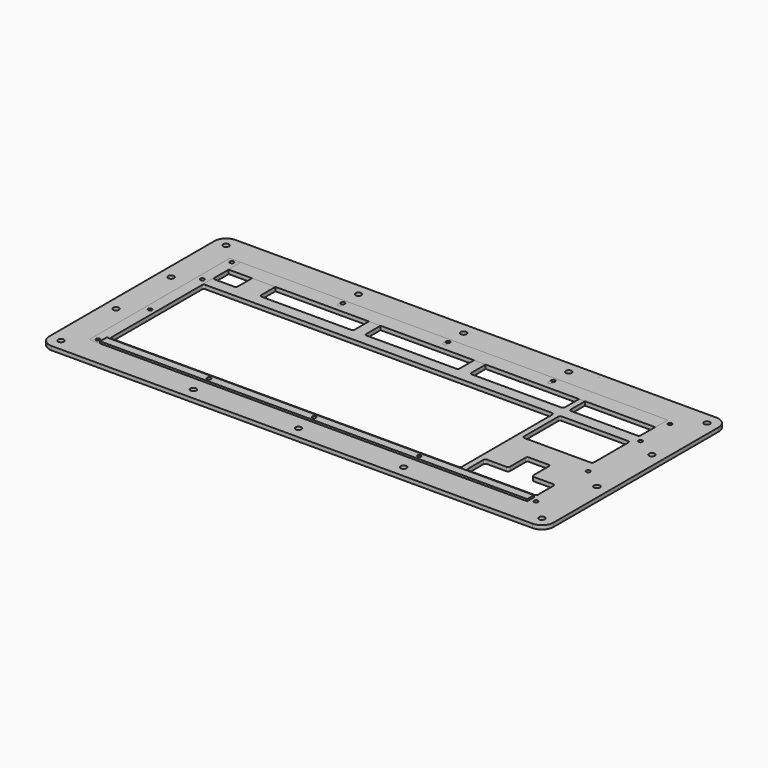
from build123d import *

# Parameters (mm, degrees)
F1_W      = 388.9375
F1_H      = 187.325
F1_R      = 2.38125
F2_DEPTH  = 3.175
F0_R      = 1.5875
F3_DEPTH  = 3.176
F4_W      = 411.1625
F4_H      = 187.325
F4_R      = 2.38125
F5_DEPTH  = 3.175
F6_DEPTH  = 3.175
F7_W      = 8.89
F7_H      = 143.383
F7_R      = 1.5875
F8_DEPTH  = 3.175
F9_W      = 348.251534
F9_H      = 12.7
F10_DEPTH = 3.175
F11_W     = 348.2975
F11_H     = 6.858
F11_R     = 1.5875
F12_DEPTH = 4.7625
F13_R     = 9.525
F13_2_R   = 9.525
F14_R     = 9.525
F14_2_R   = 9.525


with BuildPart() as f2:
    # F1 (on Top) → F2 (new body)
    with BuildSketch(Plane.XY):
        with Locations((153.19375, 52.3875)):
            Rectangle(F1_W, F1_H)
        with Locations((-31.75, -31.75)):
            Circle(F1_R, mode=Mode.SUBTRACT)
        with Locations((76.2, -31.75)):
            Circle(F1_R, mode=Mode.SUBTRACT)
        with Locations((-31.75, 24.341667)):
            Circle(F1_R, mode=Mode.SUBTRACT)
        with Locations((161.925, -31.75)):
            Circle(F1_R, mode=Mode.SUBTRACT)
        with Locations((247.65, -31.75)):
            Circle(F1_R, mode=Mode.SUBTRACT)
        with Locations((342.9, -31.75)):
            Circle(F1_R, mode=Mode.SUBTRACT)
        with Locations((-31.75, 80.433333)):
            Circle(F1_R, mode=Mode.SUBTRACT)
        with Locations((-31.75, 136.525)):
            Circle(F1_R, mode=Mode.SUBTRACT)
        with Locations((76.2, 136.525)):
            Circle(F1_R, mode=Mode.SUBTRACT)
        with Locations((161.925, 136.525)):
            Circle(F1_R, mode=Mode.SUBTRACT)
        with Locations((247.65, 136.525)):
            Circle(F1_R, mode=Mode.SUBTRACT)
        with Locations((342.9, 136.525)):
            Circle(F1_R, mode=Mode.SUBTRACT)
    extrude(amount=F2_DEPTH)

    # F0 (on Top) → F3 (cut, through all)
    with BuildSketch(Plane.XY):
        with BuildLine():
            Line((7.9375, 114.3), (-7.9375, 114.3))
            ThreePointArc((-7.9375, 114.3), (-9.060032, 113.835032), (-9.525, 112.7125))
            Line((-9.525, 112.7125), (-9.525, 96.8375))
            ThreePointArc((-9.525, 96.8375), (-9.060032, 95.714968), (-7.9375, 95.25))
            Line((-7.9375, 95.25), (7.9375, 95.25))
            ThreePointArc((7.9375, 95.25), (9.060032, 95.714968), (9.525, 96.8375))
            Line((9.525, 96.8375), (9.525, 112.7125))
            ThreePointArc((9.525, 112.7125), (9.060032, 113.835032), (7.9375, 114.3))
        make_face()
        with BuildLine():
            Line((103.1875, 114.3), (30.1625, 114.3))
            ThreePointArc((30.1625, 114.3), (29.039968, 113.835032), (28.575, 112.7125))
            Line((28.575, 112.7125), (28.575, 96.8375))
            ThreePointArc((28.575, 96.8375), (29.039968, 95.714968), (30.1625, 95.25))
            Line((30.1625, 95.25), (103.1875, 95.25))
            ThreePointArc((103.1875, 95.25), (104.310032, 95.714968), (104.775, 96.8375))
            Line((104.775, 96.8375), (104.775, 112.7125))
            ThreePointArc((104.775, 112.7125), (104.310032, 113.835032), (103.1875, 114.3))
        make_face()
        with BuildLine():
            Line((188.9125, 114.3), (115.8875, 114.3))
            ThreePointArc((115.8875, 114.3), (114.764968, 113.835032), (114.3, 112.7125))
            Line((114.3, 112.7125), (114.3, 96.8375))
            ThreePointArc((114.3, 96.8375), (114.764968, 95.714968), (115.8875, 95.25))
            Line((115.8875, 95.25), (188.9125, 95.25))
            ThreePointArc((188.9125, 95.25), (190.035032, 95.714968), (190.5, 96.8375))
            Line((190.5, 96.8375), (190.5, 112.7125))
            ThreePointArc((190.5, 112.7125), (190.035032, 113.835032), (188.9125, 114.3))
        make_face()
        with BuildLine():
            Line((274.6375, 114.3), (201.6125, 114.3))
            ThreePointArc((201.6125, 114.3), (200.489968, 113.835032), (200.025, 112.7125))
            Line((200.025, 112.7125), (200.025, 96.8375))
            ThreePointArc((200.025, 96.8375), (200.489968, 95.714968), (201.6125, 95.25))
            Line((201.6125, 95.25), (274.6375, 95.25))
            ThreePointArc((274.6375, 95.25), (275.760032, 95.714968), (276.225, 96.8375))
            Line((276.225, 96.8375), (276.225, 112.7125))
            ThreePointArc((276.225, 112.7125), (275.760032, 113.835032), (274.6375, 114.3))
        make_face()
        with BuildLine():
            Line((336.55, 114.3), (282.575, 114.3))
            ThreePointArc((282.575, 114.3), (281.452468, 113.835032), (280.9875, 112.7125))
            Line((280.9875, 112.7125), (280.9875, 96.8375))
            ThreePointArc((280.9875, 96.8375), (281.452468, 95.714968), (282.575, 95.25))
            Line((282.575, 95.25), (336.55, 95.25))
            ThreePointArc((336.55, 95.25), (337.672532, 95.714968), (338.1375, 96.8375))
            Line((338.1375, 96.8375), (338.1375, 112.7125))
            ThreePointArc((338.1375, 112.7125), (337.672532, 113.835032), (336.55, 114.3))
        make_face()
        with BuildLine():
            Line((274.6375, 85.725), (-7.9375, 85.725))
            ThreePointArc((-7.9375, 85.725), (-9.060032, 85.260032), (-9.525, 84.1375))
            Line((-9.525, 84.1375), (-9.525, -7.9375))
            ThreePointArc((-9.525, -7.9375), (-9.060032, -9.060032), (-7.9375, -9.525))
            Line((-7.9375, -9.525), (274.6375, -9.525))
            ThreePointArc((274.6375, -9.525), (275.760032, -9.060032), (276.225, -7.9375))
            Line((276.225, -7.9375), (276.225, 84.1375))
            ThreePointArc((276.225, 84.1375), (275.760032, 85.260032), (274.6375, 85.725))
        make_face()
        with BuildLine():
            Line((336.55, 85.725), (282.575, 85.725))
            ThreePointArc((282.575, 85.725), (281.452468, 85.260032), (280.9875, 84.1375))
            Line((280.9875, 84.1375), (280.9875, 49.2125))
            ThreePointArc((280.9875, 49.2125), (281.452468, 48.089968), (282.575, 47.625))
            Line((282.575, 47.625), (336.55, 47.625))
            ThreePointArc((336.55, 47.625), (337.672532, 48.089968), (338.1375, 49.2125))
            Line((338.1375, 49.2125), (338.1375, 84.1375))
            ThreePointArc((338.1375, 84.1375), (337.672532, 85.260032), (336.55, 85.725))
        make_face()
        with BuildLine():
            ThreePointArc((319.0875, 26.9875), (318.622532, 28.110032), (317.5, 28.575))
            Line((317.5, 28.575), (301.625, 28.575))
            ThreePointArc((301.625, 28.575), (300.502468, 28.110032), (300.0375, 26.9875))
            Line((300.0375, 26.9875), (300.0375, 11.1125))
            ThreePointArc((300.0375, 11.1125), (299.572532, 9.989968), (298.45, 9.525))
            Line((298.45, 9.525), (282.575, 9.525))
            ThreePointArc((282.575, 9.525), (281.452468, 9.060032), (280.9875, 7.9375))
            Line((280.9875, 7.9375), (280.9875, -7.9375))
            ThreePointArc((280.9875, -7.9375), (281.452468, -9.060032), (282.575, -9.525))
            Line((282.575, -9.525), (336.55, -9.525))
            ThreePointArc((336.55, -9.525), (337.672532, -9.060032), (338.1375, -7.9375))
            Line((338.1375, -7.9375), (338.1375, 7.9375))
            ThreePointArc((338.1375, 7.9375), (337.672532, 9.060032), (336.55, 9.525))
            Line((336.55, 9.525), (320.675, 9.525))
            ThreePointArc((320.675, 9.525), (319.552468, 9.989968), (319.0875, 11.1125))
            Line((319.0875, 11.1125), (319.0875, 26.9875))
        make_face()
        with Locations((-14.2875, 120.65)):
            Circle(F0_R)
        with Locations((-14.2875, 90.4875)):
            Circle(F0_R)
        with Locations((-14.2875, -15.875)):
            Circle(F0_R)
        with Locations((-14.2875, 37.30625)):
            Circle(F0_R)
        with Locations((342.9, 90.4875)):
            Circle(F0_R)
        with Locations((342.9, 37.30625)):
            Circle(F0_R)
        with Locations((342.9, -15.875)):
            Circle(F0_R)
        with Locations((342.9, 120.65)):
            Circle(F0_R)
        with Locations((76.2, 120.65)):
            Circle(F0_R)
        with Locations((161.925, 120.65)):
            Circle(F0_R)
        with Locations((247.65, 120.65)):
            Circle(F0_R)
        with Locations((76.2, -15.875)):
            Circle(F0_R)
        with Locations((161.925, -15.875)):
            Circle(F0_R)
        with Locations((247.65, -15.875)):
            Circle(F0_R)
    extrude(amount=F3_DEPTH, mode=Mode.SUBTRACT)

    # F13
    f13_edges = [f2.edges().sort_by_distance(p)[0] for p in [
        (-41.275, -41.275, 1.5875),
        (-41.275, 146.05, 1.5875),
    ]]
    fillet(f13_edges, radius=F13_R)

    # F14#2
    f14_2_edges = [f2.edges().sort_by_distance(p)[0] for p in [
        (347.6625, 146.05, 1.5875),
        (347.6625, -41.275, 1.5875),
    ]]
    fillet(f14_2_edges, radius=F14_2_R)


with BuildPart() as f5:
    # F4 (on Top) → F5 (new body)
    with BuildSketch(Plane.XY):
        with Locations((164.30625, 52.3875)):
            Rectangle(F4_W, F4_H)
        with Locations((-31.75, -31.75)):
            Circle(F4_R, mode=Mode.SUBTRACT)
        with Locations((76.2, -31.75)):
            Circle(F4_R, mode=Mode.SUBTRACT)
        with Locations((161.925, -31.75)):
            Circle(F4_R, mode=Mode.SUBTRACT)
        with Locations((-31.75, 24.341667)):
            Circle(F4_R, mode=Mode.SUBTRACT)
        with Locations((247.65, -31.75)):
            Circle(F4_R, mode=Mode.SUBTRACT)
        with Locations((360.3625, -31.75)):
            Circle(F4_R, mode=Mode.SUBTRACT)
        with Locations((360.3625, 24.341667)):
            Circle(F4_R, mode=Mode.SUBTRACT)
        with Locations((-31.75, 80.433333)):
            Circle(F4_R, mode=Mode.SUBTRACT)
        with Locations((-31.75, 136.525)):
            Circle(F4_R, mode=Mode.SUBTRACT)
        with Locations((76.2, 136.525)):
            Circle(F4_R, mode=Mode.SUBTRACT)
        with Locations((161.925, 136.525)):
            Circle(F4_R, mode=Mode.SUBTRACT)
        with Locations((360.3625, 80.433333)):
            Circle(F4_R, mode=Mode.SUBTRACT)
        with Locations((247.65, 136.525)):
            Circle(F4_R, mode=Mode.SUBTRACT)
        with Locations((360.3625, 136.525)):
            Circle(F4_R, mode=Mode.SUBTRACT)
    extrude(amount=F5_DEPTH)

    # F0 (on Top) → F6 (cut, through all)
    with BuildSketch(Plane.XY):
        with BuildLine():
            Line((7.9375, 114.3), (-7.9375, 114.3))
            ThreePointArc((-7.9375, 114.3), (-9.060032, 113.835032), (-9.525, 112.7125))
            Line((-9.525, 112.7125), (-9.525, 96.8375))
            ThreePointArc((-9.525, 96.8375), (-9.060032, 95.714968), (-7.9375, 95.25))
            Line((-7.9375, 95.25), (7.9375, 95.25))
            ThreePointArc((7.9375, 95.25), (9.060032, 95.714968), (9.525, 96.8375))
            Line((9.525, 96.8375), (9.525, 112.7125))
            ThreePointArc((9.525, 112.7125), (9.060032, 113.835032), (7.9375, 114.3))
        make_face()
        with BuildLine():
            Line((103.1875, 114.3), (30.1625, 114.3))
            ThreePointArc((30.1625, 114.3), (29.039968, 113.835032), (28.575, 112.7125))
            Line((28.575, 112.7125), (28.575, 96.8375))
            ThreePointArc((28.575, 96.8375), (29.039968, 95.714968), (30.1625, 95.25))
            Line((30.1625, 95.25), (103.1875, 95.25))
            ThreePointArc((103.1875, 95.25), (104.310032, 95.714968), (104.775, 96.8375))
            Line((104.775, 96.8375), (104.775, 112.7125))
            ThreePointArc((104.775, 112.7125), (104.310032, 113.835032), (103.1875, 114.3))
        make_face()
        with BuildLine():
            Line((188.9125, 114.3), (115.8875, 114.3))
            ThreePointArc((115.8875, 114.3), (114.764968, 113.835032), (114.3, 112.7125))
            Line((114.3, 112.7125), (114.3, 96.8375))
            ThreePointArc((114.3, 96.8375), (114.764968, 95.714968), (115.8875, 95.25))
            Line((115.8875, 95.25), (188.9125, 95.25))
            ThreePointArc((188.9125, 95.25), (190.035032, 95.714968), (190.5, 96.8375))
            Line((190.5, 96.8375), (190.5, 112.7125))
            ThreePointArc((190.5, 112.7125), (190.035032, 113.835032), (188.9125, 114.3))
        make_face()
        with BuildLine():
            Line((274.6375, 114.3), (201.6125, 114.3))
            ThreePointArc((201.6125, 114.3), (200.489968, 113.835032), (200.025, 112.7125))
            Line((200.025, 112.7125), (200.025, 96.8375))
            ThreePointArc((200.025, 96.8375), (200.489968, 95.714968), (201.6125, 95.25))
            Line((201.6125, 95.25), (274.6375, 95.25))
            ThreePointArc((274.6375, 95.25), (275.760032, 95.714968), (276.225, 96.8375))
            Line((276.225, 96.8375), (276.225, 112.7125))
            ThreePointArc((276.225, 112.7125), (275.760032, 113.835032), (274.6375, 114.3))
        make_face()
        with BuildLine():
            Line((336.55, 114.3), (282.575, 114.3))
            ThreePointArc((282.575, 114.3), (281.452468, 113.835032), (280.9875, 112.7125))
            Line((280.9875, 112.7125), (280.9875, 96.8375))
            ThreePointArc((280.9875, 96.8375), (281.452468, 95.714968), (282.575, 95.25))
            Line((282.575, 95.25), (336.55, 95.25))
            ThreePointArc((336.55, 95.25), (337.672532, 95.714968), (338.1375, 96.8375))
            Line((338.1375, 96.8375), (338.1375, 112.7125))
            ThreePointArc((338.1375, 112.7125), (337.672532, 113.835032), (336.55, 114.3))
        make_face()
        with BuildLine():
            Line((274.6375, 85.725), (-7.9375, 85.725))
            ThreePointArc((-7.9375, 85.725), (-9.060032, 85.260032), (-9.525, 84.1375))
            Line((-9.525, 84.1375), (-9.525, -7.9375))
            ThreePointArc((-9.525, -7.9375), (-9.060032, -9.060032), (-7.9375, -9.525))
            Line((-7.9375, -9.525), (274.6375, -9.525))
            ThreePointArc((274.6375, -9.525), (275.760032, -9.060032), (276.225, -7.9375))
            Line((276.225, -7.9375), (276.225, 84.1375))
            ThreePointArc((276.225, 84.1375), (275.760032, 85.260032), (274.6375, 85.725))
        make_face()
        with BuildLine():
            Line((336.55, 85.725), (282.575, 85.725))
            ThreePointArc((282.575, 85.725), (281.452468, 85.260032), (280.9875, 84.1375))
            Line((280.9875, 84.1375), (280.9875, 49.2125))
            ThreePointArc((280.9875, 49.2125), (281.452468, 48.089968), (282.575, 47.625))
            Line((282.575, 47.625), (336.55, 47.625))
            ThreePointArc((336.55, 47.625), (337.672532, 48.089968), (338.1375, 49.2125))
            Line((338.1375, 49.2125), (338.1375, 84.1375))
            ThreePointArc((338.1375, 84.1375), (337.672532, 85.260032), (336.55, 85.725))
        make_face()
        with BuildLine():
            ThreePointArc((319.0875, 26.9875), (318.622532, 28.110032), (317.5, 28.575))
            Line((317.5, 28.575), (301.625, 28.575))
            ThreePointArc((301.625, 28.575), (300.502468, 28.110032), (300.0375, 26.9875))
            Line((300.0375, 26.9875), (300.0375, 11.1125))
            ThreePointArc((300.0375, 11.1125), (299.572532, 9.989968), (298.45, 9.525))
            Line((298.45, 9.525), (282.575, 9.525))
            ThreePointArc((282.575, 9.525), (281.452468, 9.060032), (280.9875, 7.9375))
            Line((280.9875, 7.9375), (280.9875, -7.9375))
            ThreePointArc((280.9875, -7.9375), (281.452468, -9.060032), (282.575, -9.525))
            Line((282.575, -9.525), (336.55, -9.525))
            ThreePointArc((336.55, -9.525), (337.672532, -9.060032), (338.1375, -7.9375))
            Line((338.1375, -7.9375), (338.1375, 7.9375))
            ThreePointArc((338.1375, 7.9375), (337.672532, 9.060032), (336.55, 9.525))
            Line((336.55, 9.525), (320.675, 9.525))
            ThreePointArc((320.675, 9.525), (319.552468, 9.989968), (319.0875, 11.1125))
            Line((319.0875, 11.1125), (319.0875, 26.9875))
        make_face()
        with Locations((-14.2875, 120.65)):
            Circle(F0_R)
        with Locations((-14.2875, 90.4875)):
            Circle(F0_R)
        with Locations((-14.2875, -15.875)):
            Circle(F0_R)
        with Locations((-14.2875, 37.30625)):
            Circle(F0_R)
        with Locations((342.9, 90.4875)):
            Circle(F0_R)
        with Locations((342.9, 37.30625)):
            Circle(F0_R)
        with Locations((342.9, -15.875)):
            Circle(F0_R)
        with Locations((342.9, 120.65)):
            Circle(F0_R)
        with Locations((76.2, 120.65)):
            Circle(F0_R)
        with Locations((161.925, 120.65)):
            Circle(F0_R)
        with Locations((247.65, 120.65)):
            Circle(F0_R)
        with Locations((76.2, -15.875)):
            Circle(F0_R)
        with Locations((161.925, -15.875)):
            Circle(F0_R)
        with Locations((247.65, -15.875)):
            Circle(F0_R)
    extrude(amount=F6_DEPTH, mode=Mode.SUBTRACT)

    # F13#2
    f13_2_edges = [f5.edges().sort_by_distance(p)[0] for p in [
        (369.8875, 146.05, 1.5875),
        (369.8875, -41.275, 1.5875),
    ]]
    fillet(f13_2_edges, radius=F13_2_R)

    # F14
    f14_edges = [f5.edges().sort_by_distance(p)[0] for p in [
        (-41.275, -41.275, 1.5875),
        (-41.275, 146.05, 1.5875),
    ]]
    fillet(f14_edges, radius=F14_R)


with BuildPart() as f8:
    # F7 (on Top) → F8 (new body)
    with BuildSketch(Plane.XY):
        with Locations((-14.2875, 52.3875)):
            Rectangle(F7_W, F7_H)
        with Locations((-14.2875, -15.875)):
            Circle(F7_R, mode=Mode.SUBTRACT)
        with Locations((-14.2875, 37.30625)):
            Circle(F7_R, mode=Mode.SUBTRACT)
        with Locations((-14.2875, 90.4875)):
            Circle(F7_R, mode=Mode.SUBTRACT)
        with Locations((-14.2875, 120.65)):
            Circle(F7_R, mode=Mode.SUBTRACT)
    extrude(amount=F8_DEPTH)


with BuildPart() as f10:
    # F9 (on Top) → F10 (new body)
    with BuildSketch(Plane.XY):
        with Locations((164.283267, 117.729)):
            Rectangle(F9_W, F9_H)
        with BuildLine():
            ThreePointArc((74.6125, 121.44375), (76.2, 123.03125), (77.7875, 121.44375))
            Line((77.7875, 121.44375), (77.7875, 117.63375))
            ThreePointArc((77.7875, 117.63375), (76.2, 116.04625), (74.6125, 117.63375))
            Line((74.6125, 117.63375), (74.6125, 121.44375))
        make_face(mode=Mode.SUBTRACT)
        with BuildLine():
            ThreePointArc((160.3375, 121.44375), (161.925, 123.03125), (163.5125, 121.44375))
            Line((163.5125, 121.44375), (163.5125, 117.63375))
            ThreePointArc((163.5125, 117.63375), (161.925, 116.04625), (160.3375, 117.63375))
            Line((160.3375, 117.63375), (160.3375, 121.44375))
        make_face(mode=Mode.SUBTRACT)
        with BuildLine():
            ThreePointArc((246.0625, 121.44375), (247.65, 123.03125), (249.2375, 121.44375))
            Line((249.2375, 121.44375), (249.2375, 117.63375))
            ThreePointArc((249.2375, 117.63375), (247.65, 116.04625), (246.0625, 117.63375))
            Line((246.0625, 117.63375), (246.0625, 121.44375))
        make_face(mode=Mode.SUBTRACT)
    extrude(amount=F10_DEPTH)


with BuildPart() as f12:
    # F11 (on Top) → F12 (new body)
    with BuildSketch(Plane.XY):
        with Locations((164.30625, -15.875)):
            Rectangle(F11_W, F11_H)
        with Locations((76.2, -15.875)):
            Circle(F11_R, mode=Mode.SUBTRACT)
        with Locations((161.925, -15.875)):
            Circle(F11_R, mode=Mode.SUBTRACT)
        with Locations((247.65, -15.875)):
            Circle(F11_R, mode=Mode.SUBTRACT)
    extrude(amount=F12_DEPTH)


solid = Compound([f2.part, f5.part, f8.part, f10.part, f12.part])
